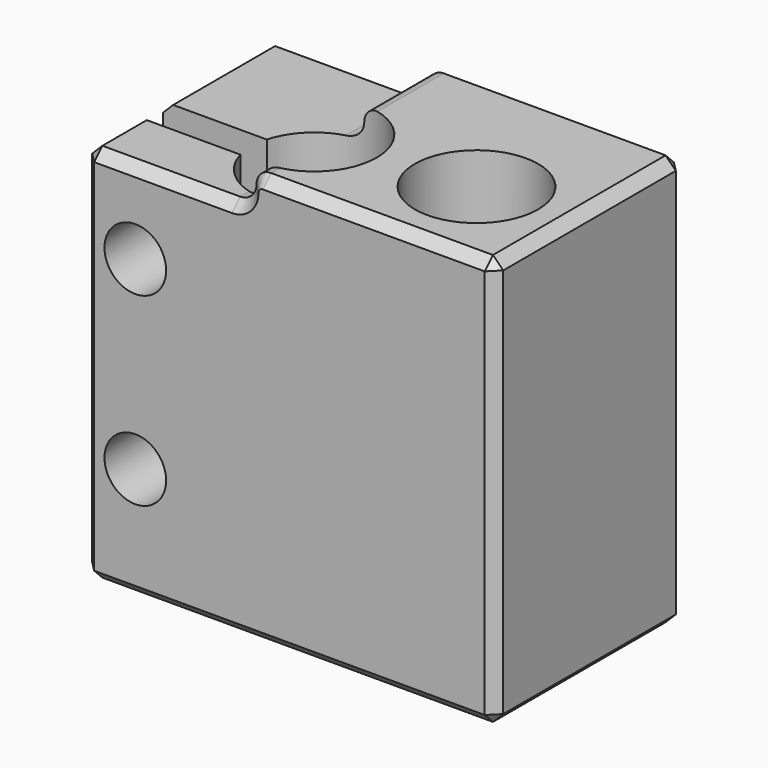
from build123d import *

# Parameters (mm, degrees)
F0_R      = 1.5
F0_R_2    = 1
F0_R_3    = 1.2
F1_DEPTH  = 11.5
F2_R      = 3
F2_R_2    = 2.4
F3_DEPTH  = 25
F4_DEPTH  = 25
F5_DEPTH  = 3.5
F6_DEPTH  = 2
F7_SIZE   = 0.5
F10_ANGLE = 180


with BuildPart() as f1:
    # F0 (on Front) → F1 (new body)
    with BuildSketch(Plane.XZ):
        with BuildLine():
            Line((-6.8, -20), (4.5, -20))
            Line((4.5, -20), (4.5, 0))
            Line((4.5, 0), (-15.5, 0))
            Line((-15.5, 0), (-15.5, -18.5))
            Line((-15.5, -18.5), (-8.3, -18.5))
            ThreePointArc((-8.3, -18.5), (-7.7343145751, -18.7343145751), (-7.5, -19.3))
            ThreePointArc((-7.5, -19.3), (-7.2949747468, -19.7949747468), (-6.8, -20))
        make_face()
        with Locations((-13, -14.5)):
            Circle(F0_R, mode=Mode.SUBTRACT)
        with Locations((-13, -5.5)):
            Circle(F0_R, mode=Mode.SUBTRACT)
        with Locations((-4, -8)):
            Circle(F0_R, mode=Mode.SUBTRACT)
        with Locations((-4, -4.5)):
            Circle(F0_R_2, mode=Mode.SUBTRACT)
        with Locations((-4, -8)):
            Circle(F0_R)
        with Locations((-4, -8)):
            Circle(F0_R_3, mode=Mode.SUBTRACT)
        with Locations((-13, -5.5)):
            Circle(F0_R)
        with Locations((-13, -5.5)):
            Circle(F0_R_3, mode=Mode.SUBTRACT)
        with Locations((-13, -14.5)):
            Circle(F0_R)
        with Locations((-13, -14.5)):
            Circle(F0_R_3, mode=Mode.SUBTRACT)
        with Locations((-4, -8)):
            Circle(F0_R_3)
        with Locations((-13, -5.5)):
            Circle(F0_R_3)
        with Locations((-13, -14.5)):
            Circle(F0_R_3)
        with Locations((-4, -4.5)):
            Circle(F0_R_2)
    extrude(amount=F1_DEPTH)

    # F2 (on Top) → F3 (cut)
    with BuildSketch(Plane.XY):
        with BuildLine():
            Line((-10.4432125306, -6.7), (-15.5, -6.7))
            Line((-15.5, -6.7), (-15.5, -8.3))
            Line((-15.5, -8.3), (-10.4432125306, -8.3))
            ThreePointArc((-10.4432125306, -8.3), (-4.45, -7.5), (-10.4432125306, -6.7))
        make_face()
        with Locations((0, -7)):
            Circle(F2_R)
        with Locations((0, -7)):
            Circle(F2_R_2, mode=Mode.SUBTRACT)
        with Locations((0, -7)):
            Circle(F2_R_2)
    extrude(amount=-F3_DEPTH, mode=Mode.SUBTRACT)

    # F0 (on Front) → F4 (cut)
    with BuildSketch(Plane.XZ):
        with Locations((-13, -5.5)):
            Circle(F0_R)
        with Locations((-13, -5.5)):
            Circle(F0_R_3, mode=Mode.SUBTRACT)
        with Locations((-13, -14.5)):
            Circle(F0_R)
        with Locations((-13, -14.5)):
            Circle(F0_R_3, mode=Mode.SUBTRACT)
        with Locations((-13, -5.5)):
            Circle(F0_R_3)
        with Locations((-13, -14.5)):
            Circle(F0_R_3)
    extrude(amount=F4_DEPTH, mode=Mode.SUBTRACT)

    # F0 (on Front) → F5 (cut)
    with BuildSketch(Plane.XZ):
        with Locations((-4, -8)):
            Circle(F0_R)
        with Locations((-4, -8)):
            Circle(F0_R_3, mode=Mode.SUBTRACT)
        with Locations((-4, -8)):
            Circle(F0_R_3)
    extrude(amount=F5_DEPTH, mode=Mode.SUBTRACT)

    # F0 (on Front) → F6 (cut)
    with BuildSketch(Plane.XZ):
        with Locations((-4, -4.5)):
            Circle(F0_R_2)
    extrude(amount=F6_DEPTH, mode=Mode.SUBTRACT)

    # F7
    f7_edges = [f1.edges().sort_by_distance(p)[0] for p in [
        (4.5, -5.75, 0),
        (-5.5, -11.5, 0),
        (-15.5, -9.9, 0),
        (-15.5, -3.35, 0),
        (-5.5, 0, 0),
        (4.5, -11.5, -10),
        (-15.5, -11.5, -9.25),
        (-11.9, -11.5, -18.5),
        (-7.734315, -11.5, -18.734315),
        (-7.294975, -11.5, -19.794975),
        (-1.15, -11.5, -20),
        (4.5, -5.75, -20),
        (-15.5, -9.9, -18.5),
        (-15.5, -3.35, -18.5),
        (4.5, 0, -10),
        (-1.15, 0, -20),
        (-7.294975, 0, -19.794975),
        (-7.734315, 0, -18.734315),
        (-11.9, 0, -18.5),
        (-15.5, 0, -9.25),
    ]]
    chamfer(f7_edges, length=F7_SIZE)


with BuildPart() as f8_1:
    # F8: instance of F1
    add(f1.part.mirror(Plane.XZ))


with BuildPart() as f8_1_1:
    # F10: moved
    add(f8_1.part.rotate(Axis((-5.5, 0, -0.5), (1, 0, 0)), F10_ANGLE))


solid = f8_1_1.part
